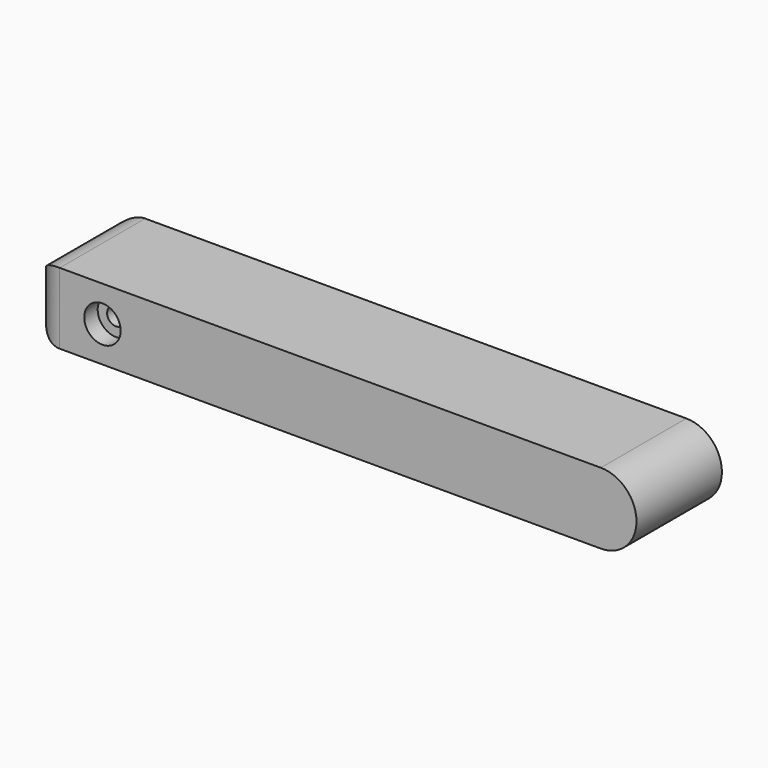
from build123d import *

# Parameters (mm, degrees)
F1_DEPTH       = 19.05
F2_R           = 5.08
F4_D           = 3.15
F4_CBORE_D     = 6.5
F4_CBORE_DEPTH = 3


with BuildPart() as f1:
    # F0 (on Front) → F1 (new body)
    with BuildSketch(Plane.XZ):
        with BuildLine():
            Line((0, 12.7), (0, 0))
            Line((0, 0), (101.6, 0))
            ThreePointArc((101.6, 0), (107.95, 6.35), (101.6, 12.7))
            Line((101.6, 12.7), (0, 12.7))
        make_face()
    extrude(amount=F1_DEPTH)

    # F2
    f2_edges = [f1.edges().sort_by_distance(p)[0] for p in [
        (0, -19.05, 6.35),
        (0, -9.525, 12.7),
        (0, 0, 6.35),
        (0, -9.525, 0),
    ]]
    fillet(f2_edges, radius=F2_R)

    # F4 (through all)
    with Locations(Plane.XZ.offset(19.05)):
        with Locations((12.7, 6.35)):
            CounterBoreHole(F4_D / 2, F4_CBORE_D / 2, F4_CBORE_DEPTH)


solid = f1.part
